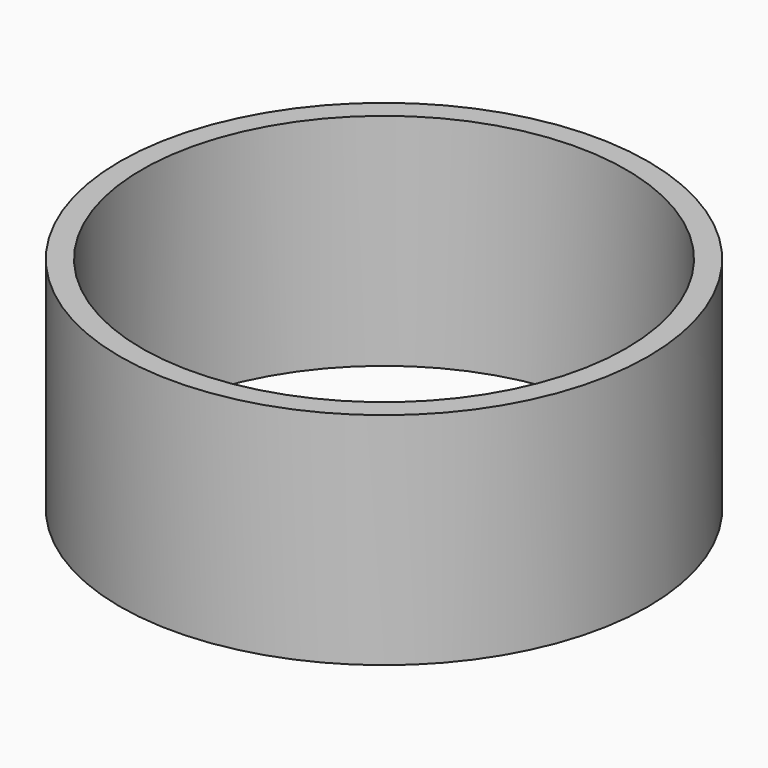
from build123d import *

# Parameters (mm, degrees)
F0_R     = 15.24
F1_DEPTH = 12.7
F2_R     = 13.97
F3_DEPTH = 12.7
F4_R     = 13.97
F5_DEPTH = 12.7


with BuildPart() as f1:
    # F0 (on Top) → F1 (new body)
    with BuildSketch(Plane.XY):
        Circle(F0_R)
    extrude(amount=F1_DEPTH)

    # F2 (on Top) → F3 (cut)
    with BuildSketch(Plane.XY):
        with Locations((-10.602972, 18.632865)):
            Circle(F2_R)
    extrude(amount=-F3_DEPTH, mode=Mode.SUBTRACT)

    # F4 (on Top) → F5 (cut)
    with BuildSketch(Plane.XY):
        Circle(F4_R)
    extrude(amount=F5_DEPTH, mode=Mode.SUBTRACT)


solid = f1.part
